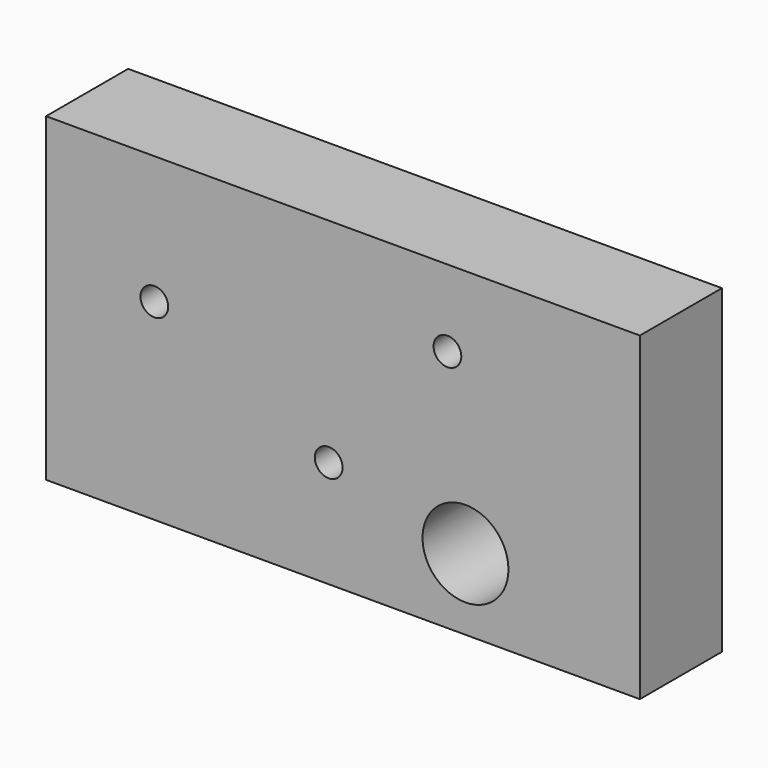
from build123d import *

# Parameters (mm, degrees)
F0_W           = 144.7047647089
F0_H           = 78.020889312
F0_R           = 10.4690892811
F0_R_2         = 14.6326120323
F1_DEPTH       = 25
F2_D           = 6.7564
F2_CSINK_D     = 13.4874
F2_CSINK_ANGLE = 82
F3_DEPTH       = 25


with BuildPart() as f1:
    # F0 (on Front) → F1 (new body)
    with BuildSketch(Plane.XZ):
        with Locations((-52.569960244, -12.6112531871)):
            Rectangle(F0_W, F0_H)
        with Locations((-22.7131489664, -34.2154763639)):
            Circle(F0_R, mode=Mode.SUBTRACT)
        with Locations((-71.8028619885, -2.9601538554)):
            Circle(F0_R_2, mode=Mode.SUBTRACT)
    extrude(amount=F1_DEPTH)

    # F2 (through all)
    with Locations(Plane(origin=(0, 0, 0), x_dir=(1, 0, 0), z_dir=(0, 1, 0))):
        with Locations((-98.5457673669, 4.8187081702), (-56.0501925647, 25.5219973624), (-27.109246701, -7.7437334694)):
            CounterSinkHole(F2_D / 2, F2_CSINK_D / 2, counter_sink_angle=F2_CSINK_ANGLE)

    # F0 (on Front) → F3 (join)
    with BuildSketch(Plane.XZ):
        with Locations((-71.8028619885, -2.9601538554)):
            Circle(F0_R_2)
    extrude(amount=F3_DEPTH)


solid = f1.part
